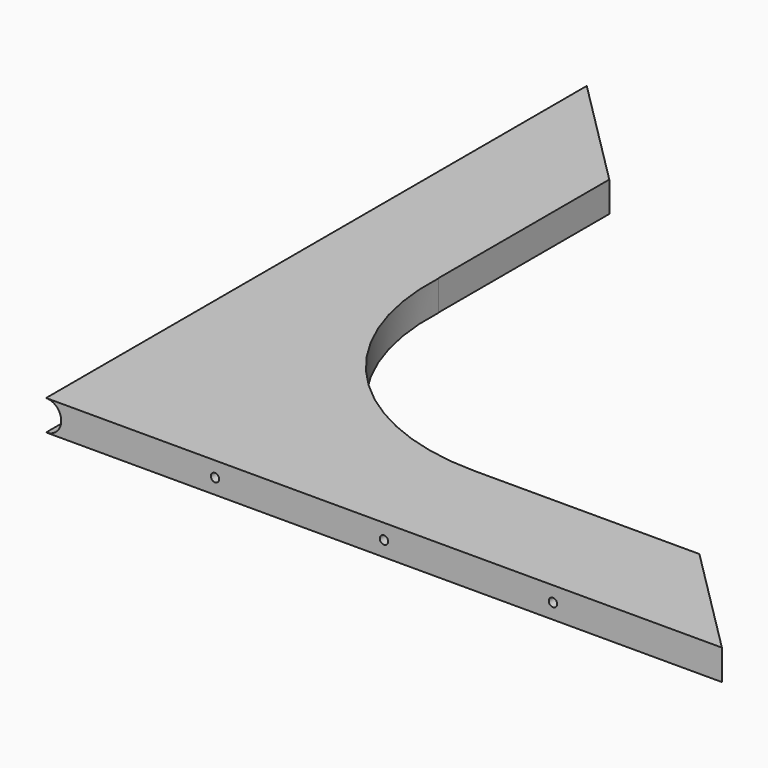
from build123d import *

# Parameters (mm, degrees)
PAD_DEPTH              = 13.4
CYLINDER_W             = 6.7
CYLINDER_H             = 298.45
CYLINDER_ANGLE         = 180
CYLINDER001_R          = 99.483333
CYLINDER001_DEPTH      = 32
BOX_W                  = 149.225
BOX_H                  = 30
BOX_DEPTH              = 21
BOX001_W               = 33
BOX001_H               = 149.225
BOX001_DEPTH           = 22
CYLINDER002_R          = 3.7
CYLINDER002_DEPTH      = 105
LINEARPATTERN_COUNT    = 3
LINEARPATTERN_PITCH    = 74.6125
CYLINDER003_R          = 1.85
CYLINDER003_DEPTH      = 100
LINEARPATTERN001_COUNT = 3
LINEARPATTERN001_PITCH = 74.6125


with BuildPart() as part:
    # Sketch → Pad (new body)
    with BuildSketch(Plane.XY):
        Polygon((0, 0), (298.45, 0), (0, 298.45), align=None)
    extrude(amount=PAD_DEPTH)

    # Cylinder → Cylinder (revolve, cut)
    with BuildSketch(Plane(origin=(0, 0, 6.7), x_dir=(0, 0, 1), z_dir=(-1, 0, 0))):
        with Locations((3.35, 149.225)):
            Rectangle(CYLINDER_W, CYLINDER_H)
    revolve(axis=Axis((0, 0, 6.7), (0, 1, 0)), revolution_arc=CYLINDER_ANGLE, mode=Mode.SUBTRACT)

    # Cylinder001 → Cylinder001 (cut)
    with BuildSketch(Plane(origin=(149.225, 149.225, -8), x_dir=(1, 0, 0), z_dir=(0, 0, 1))):
        Circle(CYLINDER001_R)
    extrude(amount=CYLINDER001_DEPTH, mode=Mode.SUBTRACT)

    # Box → Box (cut)
    with BuildSketch(Plane(origin=(149.225, 79.741667, 17), x_dir=(1, 0, 0), z_dir=(0, 0, -1))):
        with Locations((74.6125, 15)):
            Rectangle(BOX_W, BOX_H)
    extrude(amount=BOX_DEPTH, mode=Mode.SUBTRACT)

    # Box001 → Box001 (cut)
    with BuildSketch(Plane(origin=(49.741667, 303.579167, 17), x_dir=(1, 0, 0), z_dir=(0, 0, -1))):
        with Locations((16.5, 74.6125)):
            Rectangle(BOX001_W, BOX001_H)
    extrude(amount=BOX001_DEPTH, mode=Mode.SUBTRACT)

    # Cylinder002 → Cylinder002 (cut)
    with BuildSketch(Plane(origin=(74.6125, 5, 6.7), x_dir=(-1, 0, 0), z_dir=(0, 1, 0))):
        Circle(CYLINDER002_R)
    cylinder002 = extrude(amount=CYLINDER002_DEPTH, mode=Mode.SUBTRACT)

    # LinearPattern: Cylinder002 ×3
    with Locations(*[(i * LINEARPATTERN_PITCH, 0, 0) for i in range(1, LINEARPATTERN_COUNT)]):
        add(cylinder002, mode=Mode.SUBTRACT)

    # Cylinder003 → Cylinder003 (cut)
    with BuildSketch(Plane(origin=(74.6125, 0, 6.7), x_dir=(-1, 0, 0), z_dir=(0, 1, 0))):
        Circle(CYLINDER003_R)
    cylinder003 = extrude(amount=CYLINDER003_DEPTH, mode=Mode.SUBTRACT)

    # LinearPattern001: Cylinder003 ×3
    with Locations(*[(i * LINEARPATTERN001_PITCH, 0, 0) for i in range(1, LINEARPATTERN001_COUNT)]):
        add(cylinder003, mode=Mode.SUBTRACT)


solid = part.part
